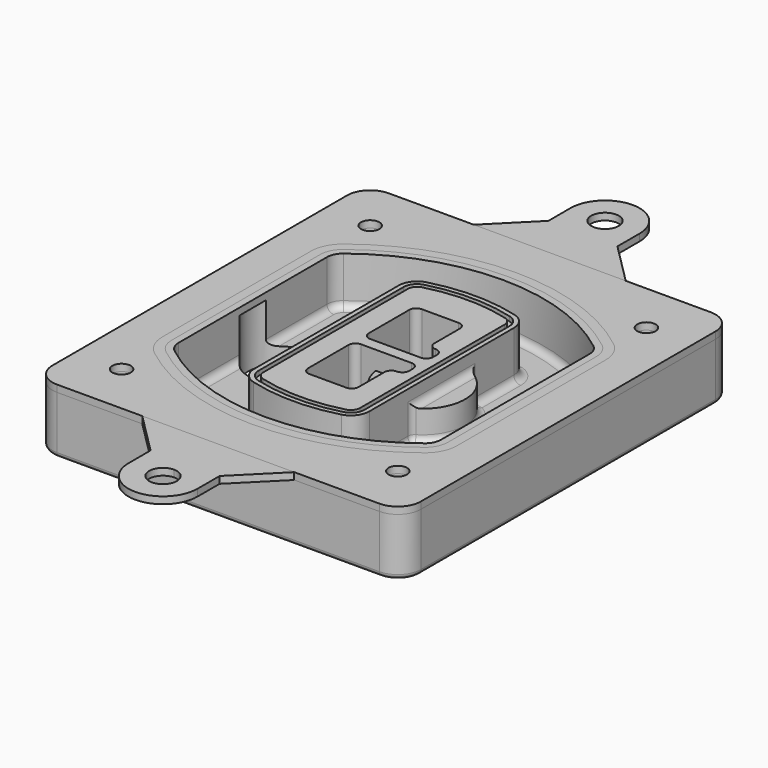
from build123d import *

# Parameters (mm, degrees)
F0_R      = 4
F1_DEPTH  = 25
F2_DEPTH  = 3
F3_DEPTH  = 18
F5_DEPTH  = 21
F6_DEPTH  = 2
F8_DEPTH  = 20
F9_DEPTH  = 16
F10_DEPTH = 25
F7_R      = 6
F7_R_2    = 4
F11_DEPTH = 6
F13_DEPTH = 9
F14_R     = 3
F15_R     = 2
F16_R     = 4
F17_DEPTH = 3


with BuildPart() as f1:
    # F0 (on Top) → F1 (new body)
    with BuildSketch(Plane.XY):
        with BuildLine():
            ThreePointArc((-80, -80), (-77.0710678119, -87.0710678119), (-70, -90))
            Line((-70, -90), (70, -90))
            ThreePointArc((70, -90), (77.0710678119, -87.0710678119), (80, -80))
            Line((80, -80), (80, 80))
            ThreePointArc((80, 80), (77.0710678119, 87.0710678119), (70, 90))
            Line((70, 90), (-70, 90))
            ThreePointArc((-70, 90), (-77.0710678119, 87.0710678119), (-80, 80))
            Line((-80, 80), (-80, -80))
        make_face()
        with Locations((-60, -67.5)):
            Circle(F0_R, mode=Mode.SUBTRACT)
        with Locations((60, -67.5)):
            Circle(F0_R, mode=Mode.SUBTRACT)
        with Locations((-60, 67.5)):
            Circle(F0_R, mode=Mode.SUBTRACT)
        with BuildLine():
            ThreePointArc((-64, 40.2934422872), (-62.5820384798, 46.4328484224), (-58.6153846154, 51.3286200352))
            ThreePointArc((-58.6153846154, 51.3286200352), (0, 71.5), (58.6153846154, 51.3286200352))
            ThreePointArc((58.6153846154, 51.3286200352), (62.5820384798, 46.4328484224), (64, 40.2934422872))
            Line((64, 40.2934422872), (64, -40.2934422872))
            ThreePointArc((64, -40.2934422872), (62.5820384798, -46.4328484224), (58.6153846154, -51.3286200352))
            ThreePointArc((58.6153846154, -51.3286200352), (0, -71.5), (-58.6153846154, -51.3286200352))
            ThreePointArc((-58.6153846154, -51.3286200352), (-62.5820384798, -46.4328484224), (-64, -40.2934422872))
            Line((-64, -40.2934422872), (-64, 40.2934422872))
        make_face(mode=Mode.SUBTRACT)
        with Locations((60, 67.5)):
            Circle(F0_R, mode=Mode.SUBTRACT)
        with BuildLine():
            ThreePointArc((58.6153846154, 51.3286200352), (0, 71.5), (-58.6153846154, 51.3286200352))
            ThreePointArc((-58.6153846154, 51.3286200352), (-62.5820384798, 46.4328484224), (-64, 40.2934422872))
            Line((-64, 40.2934422872), (-64, -40.2934422872))
            ThreePointArc((-64, -40.2934422872), (-62.5820384798, -46.4328484224), (-58.6153846154, -51.3286200352))
            ThreePointArc((-58.6153846154, -51.3286200352), (0, -71.5), (58.6153846154, -51.3286200352))
            ThreePointArc((58.6153846154, -51.3286200352), (62.5820384798, -46.4328484224), (64, -40.2934422872))
            Line((64, -40.2934422872), (64, 40.2934422872))
            ThreePointArc((64, 40.2934422872), (62.5820384798, 46.4328484224), (58.6153846154, 51.3286200352))
        make_face()
        with BuildLine():
            Line((-60, -40.2934422872), (-60, 40.2934422872))
            ThreePointArc((-60, 40.2934422872), (-58.9871703427, 44.6787323838), (-56.1538461538, 48.1757121072))
            ThreePointArc((-56.1538461538, 48.1757121072), (0, 67.5), (56.1538461538, 48.1757121072))
            ThreePointArc((56.1538461538, 48.1757121072), (58.9871703427, 44.6787323838), (60, 40.2934422872))
            Line((60, 40.2934422872), (60, -40.2934422872))
            ThreePointArc((60, -40.2934422872), (58.9871703427, -44.6787323838), (56.1538461538, -48.1757121072))
            ThreePointArc((56.1538461538, -48.1757121072), (0, -67.5), (-56.1538461538, -48.1757121072))
            ThreePointArc((-56.1538461538, -48.1757121072), (-58.9871703427, -44.6787323838), (-60, -40.2934422872))
        make_face(mode=Mode.SUBTRACT)
        with BuildLine():
            ThreePointArc((-56.1538461538, 48.1757121072), (-58.9871703427, 44.6787323838), (-60, 40.2934422872))
            Line((-60, 40.2934422872), (-60, -40.2934422872))
            ThreePointArc((-60, -40.2934422872), (-58.9871703427, -44.6787323838), (-56.1538461538, -48.1757121072))
            ThreePointArc((-56.1538461538, -48.1757121072), (0, -67.5), (56.1538461538, -48.1757121072))
            ThreePointArc((56.1538461538, -48.1757121072), (58.9871703427, -44.6787323838), (60, -40.2934422872))
            Line((60, -40.2934422872), (60, 40.2934422872))
            ThreePointArc((60, 40.2934422872), (58.9871703427, 44.6787323838), (56.1538461538, 48.1757121072))
            ThreePointArc((56.1538461538, 48.1757121072), (0, 67.5), (-56.1538461538, 48.1757121072))
        make_face()
        with BuildLine():
            ThreePointArc((54.3076923077, 45.8110311612), (56.2910192399, 43.3631453548), (57, 40.2934422872))
            Line((57, 40.2934422872), (57, -40.2934422872))
            ThreePointArc((57, -40.2934422872), (56.2910192399, -43.3631453548), (54.3076923077, -45.8110311612))
            ThreePointArc((54.3076923077, -45.8110311612), (0, -64.5), (-54.3076923077, -45.8110311612))
            ThreePointArc((-54.3076923077, -45.8110311612), (-56.2910192399, -43.3631453548), (-57, -40.2934422872))
            Line((-57, -40.2934422872), (-57, 40.2934422872))
            ThreePointArc((-57, 40.2934422872), (-56.2910192399, 43.3631453548), (-54.3076923077, 45.8110311612))
            ThreePointArc((-54.3076923077, 45.8110311612), (0, 64.5), (54.3076923077, 45.8110311612))
        make_face(mode=Mode.SUBTRACT)
        with BuildLine():
            Line((57, -40.2934422872), (57, 40.2934422872))
            ThreePointArc((57, 40.2934422872), (56.2910192399, 43.3631453548), (54.3076923077, 45.8110311612))
            ThreePointArc((54.3076923077, 45.8110311612), (0, 64.5), (-54.3076923077, 45.8110311612))
            ThreePointArc((-54.3076923077, 45.8110311612), (-56.2910192399, 43.3631453548), (-57, 40.2934422872))
            Line((-57, 40.2934422872), (-57, -40.2934422872))
            ThreePointArc((-57, -40.2934422872), (-56.2910192399, -43.3631453548), (-54.3076923077, -45.8110311612))
            ThreePointArc((-54.3076923077, -45.8110311612), (0, -64.5), (54.3076923077, -45.8110311612))
            ThreePointArc((54.3076923077, -45.8110311612), (56.2910192399, -43.3631453548), (57, -40.2934422872))
        make_face()
    extrude(amount=-F1_DEPTH)

    # F0 (on Top) → F2 (join)
    with BuildSketch(Plane.XY):
        with BuildLine():
            ThreePointArc((-56.1538461538, 48.1757121072), (-58.9871703427, 44.6787323838), (-60, 40.2934422872))
            Line((-60, 40.2934422872), (-60, -40.2934422872))
            ThreePointArc((-60, -40.2934422872), (-58.9871703427, -44.6787323838), (-56.1538461538, -48.1757121072))
            ThreePointArc((-56.1538461538, -48.1757121072), (0, -67.5), (56.1538461538, -48.1757121072))
            ThreePointArc((56.1538461538, -48.1757121072), (58.9871703427, -44.6787323838), (60, -40.2934422872))
            Line((60, -40.2934422872), (60, 40.2934422872))
            ThreePointArc((60, 40.2934422872), (58.9871703427, 44.6787323838), (56.1538461538, 48.1757121072))
            ThreePointArc((56.1538461538, 48.1757121072), (0, 67.5), (-56.1538461538, 48.1757121072))
        make_face()
        with BuildLine():
            ThreePointArc((54.3076923077, 45.8110311612), (56.2910192399, 43.3631453548), (57, 40.2934422872))
            Line((57, 40.2934422872), (57, -40.2934422872))
            ThreePointArc((57, -40.2934422872), (56.2910192399, -43.3631453548), (54.3076923077, -45.8110311612))
            ThreePointArc((54.3076923077, -45.8110311612), (0, -64.5), (-54.3076923077, -45.8110311612))
            ThreePointArc((-54.3076923077, -45.8110311612), (-56.2910192399, -43.3631453548), (-57, -40.2934422872))
            Line((-57, -40.2934422872), (-57, 40.2934422872))
            ThreePointArc((-57, 40.2934422872), (-56.2910192399, 43.3631453548), (-54.3076923077, 45.8110311612))
            ThreePointArc((-54.3076923077, 45.8110311612), (0, 64.5), (54.3076923077, 45.8110311612))
        make_face(mode=Mode.SUBTRACT)
    extrude(amount=F2_DEPTH)

    # F0 (on Top) → F3 (cut)
    with BuildSketch(Plane.XY):
        with BuildLine():
            Line((57, -40.2934422872), (57, 40.2934422872))
            ThreePointArc((57, 40.2934422872), (56.2910192399, 43.3631453548), (54.3076923077, 45.8110311612))
            ThreePointArc((54.3076923077, 45.8110311612), (0, 64.5), (-54.3076923077, 45.8110311612))
            ThreePointArc((-54.3076923077, 45.8110311612), (-56.2910192399, 43.3631453548), (-57, 40.2934422872))
            Line((-57, 40.2934422872), (-57, -40.2934422872))
            ThreePointArc((-57, -40.2934422872), (-56.2910192399, -43.3631453548), (-54.3076923077, -45.8110311612))
            ThreePointArc((-54.3076923077, -45.8110311612), (0, -64.5), (54.3076923077, -45.8110311612))
            ThreePointArc((54.3076923077, -45.8110311612), (56.2910192399, -43.3631453548), (57, -40.2934422872))
        make_face()
    extrude(amount=-F3_DEPTH, mode=Mode.SUBTRACT)

    # F4 (on face) → F5 (join, through all)
    with BuildSketch(Plane.XY.offset(3)):
        with BuildLine():
            ThreePointArc((-25, -39.2465276821), (-23.3511545998, -44.1109737193), (-19.0842911877, -46.9702398883))
            ThreePointArc((-19.0842911877, -46.9702398883), (0, -49.5), (19.0842911877, -46.9702398883))
            ThreePointArc((19.0842911877, -46.9702398883), (23.3511545998, -44.1109737193), (25, -39.2465276821))
            Line((25, -39.2465276821), (25, 39.2465276821))
            ThreePointArc((25, 39.2465276821), (23.3511545998, 44.1109737193), (19.0842911877, 46.9702398883))
            ThreePointArc((19.0842911877, 46.9702398883), (0, 49.5), (-19.0842911877, 46.9702398883))
            ThreePointArc((-19.0842911877, 46.9702398883), (-23.3511545998, 44.1109737193), (-25, 39.2465276821))
            Line((-25, 39.2465276821), (-25, -39.2465276821))
        make_face()
        with BuildLine():
            ThreePointArc((18.5632183908, 45.0393118368), (21.7633659499, 42.89486221), (23, 39.2465276821))
            Line((23, 39.2465276821), (23, -39.2465276821))
            ThreePointArc((23, -39.2465276821), (21.7633659499, -42.89486221), (18.5632183908, -45.0393118368))
            ThreePointArc((18.5632183908, -45.0393118368), (0, -47.5), (-18.5632183908, -45.0393118368))
            ThreePointArc((-18.5632183908, -45.0393118368), (-21.7633659499, -42.89486221), (-23, -39.2465276821))
            Line((-23, -39.2465276821), (-23, 39.2465276821))
            ThreePointArc((-23, 39.2465276821), (-21.7633659499, 42.89486221), (-18.5632183908, 45.0393118368))
            ThreePointArc((-18.5632183908, 45.0393118368), (0, 47.5), (18.5632183908, 45.0393118368))
        make_face(mode=Mode.SUBTRACT)
        with BuildLine():
            Line((23, -39.2465276821), (23, 39.2465276821))
            ThreePointArc((23, 39.2465276821), (21.7633659499, 42.89486221), (18.5632183908, 45.0393118368))
            ThreePointArc((18.5632183908, 45.0393118368), (0, 47.5), (-18.5632183908, 45.0393118368))
            ThreePointArc((-18.5632183908, 45.0393118368), (-21.7633659499, 42.89486221), (-23, 39.2465276821))
            Line((-23, 39.2465276821), (-23, -39.2465276821))
            ThreePointArc((-23, -39.2465276821), (-21.7633659499, -42.89486221), (-18.5632183908, -45.0393118368))
            ThreePointArc((-18.5632183908, -45.0393118368), (0, -47.5), (18.5632183908, -45.0393118368))
            ThreePointArc((18.5632183908, -45.0393118368), (21.7633659499, -42.89486221), (23, -39.2465276821))
        make_face()
        with BuildLine():
            ThreePointArc((18.0421455939, 43.1083837852), (20.1755772999, 41.6787507007), (21, 39.2465276821))
            Line((21, 39.2465276821), (21, -39.2465276821))
            ThreePointArc((21, -39.2465276821), (20.1755772999, -41.6787507007), (18.0421455939, -43.1083837852))
            ThreePointArc((18.0421455939, -43.1083837852), (0, -45.5), (-18.0421455939, -43.1083837852))
            ThreePointArc((-18.0421455939, -43.1083837852), (-20.1755772999, -41.6787507007), (-21, -39.2465276821))
            Line((-21, -39.2465276821), (-21, 39.2465276821))
            ThreePointArc((-21, 39.2465276821), (-20.1755772999, 41.6787507007), (-18.0421455939, 43.1083837852))
            ThreePointArc((-18.0421455939, 43.1083837852), (0, 45.5), (18.0421455939, 43.1083837852))
        make_face(mode=Mode.SUBTRACT)
        with BuildLine():
            Line((21, -39.2465276821), (21, 39.2465276821))
            ThreePointArc((21, 39.2465276821), (20.1755772999, 41.6787507007), (18.0421455939, 43.1083837852))
            ThreePointArc((18.0421455939, 43.1083837852), (0, 45.5), (-18.0421455939, 43.1083837852))
            ThreePointArc((-18.0421455939, 43.1083837852), (-20.1755772999, 41.6787507007), (-21, 39.2465276821))
            Line((-21, 39.2465276821), (-21, -39.2465276821))
            ThreePointArc((-21, -39.2465276821), (-20.1755772999, -41.6787507007), (-18.0421455939, -43.1083837852))
            ThreePointArc((-18.0421455939, -43.1083837852), (0, -45.5), (18.0421455939, -43.1083837852))
            ThreePointArc((18.0421455939, -43.1083837852), (20.1755772999, -41.6787507007), (21, -39.2465276821))
        make_face()
        with BuildLine():
            Line((-8, -2.5), (14, -2.5))
            ThreePointArc((14, -2.5), (16.1213203436, -3.3786796564), (17, -5.5))
            Line((17, -5.5), (17, -7.5))
            ThreePointArc((17, -7.5), (16.1213203436, -9.6213203436), (14, -10.5))
            ThreePointArc((14, -10.5), (11.8786796564, -11.3786796564), (11, -13.5))
            Line((11, -13.5), (11, -27.5))
            ThreePointArc((11, -27.5), (10.1213203436, -29.6213203436), (8, -30.5))
            Line((8, -30.5), (-8, -30.5))
            ThreePointArc((-8, -30.5), (-10.1213203436, -29.6213203436), (-11, -27.5))
            Line((-11, -27.5), (-11, -5.5))
            ThreePointArc((-11, -5.5), (-10.1213203436, -3.3786796564), (-8, -2.5))
        make_face(mode=Mode.SUBTRACT)
        with BuildLine():
            ThreePointArc((-8, 2.5), (-10.1213203436, 3.3786796564), (-11, 5.5))
            Line((-11, 5.5), (-11, 27.5))
            ThreePointArc((-11, 27.5), (-10.1213203436, 29.6213203436), (-8, 30.5))
            Line((-8, 30.5), (8, 30.5))
            ThreePointArc((8, 30.5), (10.1213203436, 29.6213203436), (11, 27.5))
            Line((11, 27.5), (11, 13.5))
            ThreePointArc((11, 13.5), (11.8786796564, 11.3786796564), (14, 10.5))
            ThreePointArc((14, 10.5), (16.1213203436, 9.6213203436), (17, 7.5))
            Line((17, 7.5), (17, 5.5))
            ThreePointArc((17, 5.5), (16.1213203436, 3.3786796564), (14, 2.5))
            Line((14, 2.5), (-8, 2.5))
        make_face(mode=Mode.SUBTRACT)
    extrude(amount=-F5_DEPTH)

    # F4 (on face) → F6 (cut)
    with BuildSketch(Plane.XY.offset(3)):
        with BuildLine():
            Line((23, -39.2465276821), (23, 39.2465276821))
            ThreePointArc((23, 39.2465276821), (21.7633659499, 42.89486221), (18.5632183908, 45.0393118368))
            ThreePointArc((18.5632183908, 45.0393118368), (0, 47.5), (-18.5632183908, 45.0393118368))
            ThreePointArc((-18.5632183908, 45.0393118368), (-21.7633659499, 42.89486221), (-23, 39.2465276821))
            Line((-23, 39.2465276821), (-23, -39.2465276821))
            ThreePointArc((-23, -39.2465276821), (-21.7633659499, -42.89486221), (-18.5632183908, -45.0393118368))
            ThreePointArc((-18.5632183908, -45.0393118368), (0, -47.5), (18.5632183908, -45.0393118368))
            ThreePointArc((18.5632183908, -45.0393118368), (21.7633659499, -42.89486221), (23, -39.2465276821))
        make_face()
        with BuildLine():
            ThreePointArc((18.0421455939, 43.1083837852), (20.1755772999, 41.6787507007), (21, 39.2465276821))
            Line((21, 39.2465276821), (21, -39.2465276821))
            ThreePointArc((21, -39.2465276821), (20.1755772999, -41.6787507007), (18.0421455939, -43.1083837852))
            ThreePointArc((18.0421455939, -43.1083837852), (0, -45.5), (-18.0421455939, -43.1083837852))
            ThreePointArc((-18.0421455939, -43.1083837852), (-20.1755772999, -41.6787507007), (-21, -39.2465276821))
            Line((-21, -39.2465276821), (-21, 39.2465276821))
            ThreePointArc((-21, 39.2465276821), (-20.1755772999, 41.6787507007), (-18.0421455939, 43.1083837852))
            ThreePointArc((-18.0421455939, 43.1083837852), (0, 45.5), (18.0421455939, 43.1083837852))
        make_face(mode=Mode.SUBTRACT)
    extrude(amount=-F6_DEPTH, mode=Mode.SUBTRACT)

    # F7 (on face) → F8 (join)
    with BuildSketch(Plane(origin=(0, 0, -25), x_dir=(1, 0, 0), z_dir=(0, 0, -1))):
        with BuildLine():
            ThreePointArc((3.28842436, 0), (16.7567035675, 13.4682792075), (30.224982775, 0))
            Line((30.224982775, 0), (35.224982775, 0))
            ThreePointArc((35.224982775, 0), (16.7567035675, 18.4682792075), (-1.71157564, 0))
            Line((-1.71157564, 0), (3.28842436, 0))
        make_face()
        with BuildLine():
            Line((3.28842436, 0), (30.224982775, 0))
            ThreePointArc((30.224982775, 0), (16.7567035675, 13.4682792075), (3.28842436, 0))
        make_face()
        with BuildLine():
            ThreePointArc((3.28842436, 0), (16.7567035675, -13.4682792075), (30.224982775, 0))
            Line((30.224982775, 0), (3.28842436, 0))
        make_face()
        with BuildLine():
            Line((35.224982775, 0), (30.224982775, 0))
            ThreePointArc((30.224982775, 0), (16.7567035675, -13.4682792075), (3.28842436, 0))
            Line((3.28842436, 0), (-1.71157564, 0))
            ThreePointArc((-1.71157564, 0), (16.7567035675, -18.4682792075), (35.224982775, 0))
        make_face()
    extrude(amount=-F8_DEPTH)

    # F7 (on face) → F9 (cut)
    with BuildSketch(Plane(origin=(0, 0, -25), x_dir=(1, 0, 0), z_dir=(0, 0, -1))):
        with BuildLine():
            Line((3.28842436, 0), (30.224982775, 0))
            ThreePointArc((30.224982775, 0), (16.7567035675, 13.4682792075), (3.28842436, 0))
        make_face()
        with BuildLine():
            ThreePointArc((3.28842436, 0), (16.7567035675, -13.4682792075), (30.224982775, 0))
            Line((30.224982775, 0), (3.28842436, 0))
        make_face()
    extrude(amount=-F9_DEPTH, mode=Mode.SUBTRACT)

    # F7 (on face) → F10 (cut)
    with BuildSketch(Plane(origin=(0, 0, -25), x_dir=(1, 0, 0), z_dir=(0, 0, -1))):
        with BuildLine():
            Line((-59.0318229325, 0), (-32.0952645175, 0))
            ThreePointArc((-32.0952645175, 0), (-45.563543725, 13.4682792075), (-59.0318229325, 0))
        make_face()
        with BuildLine():
            ThreePointArc((-59.0318229325, 0), (-45.563543725, -13.4682792075), (-32.0952645175, 0))
            Line((-32.0952645175, 0), (-59.0318229325, 0))
        make_face()
    extrude(amount=-F10_DEPTH, mode=Mode.SUBTRACT)

    # F7 (on face) → F11 (cut)
    with BuildSketch(Plane(origin=(0, 0, -25), x_dir=(1, 0, 0), z_dir=(0, 0, -1))):
        with Locations((60, -67.5)):
            Circle(F7_R)
        with Locations((60, -67.5)):
            Circle(F7_R_2, mode=Mode.SUBTRACT)
        with Locations((60, -67.5)):
            Circle(F7_R)
        with Locations((60, -67.5)):
            Circle(F7_R_2, mode=Mode.SUBTRACT)
        with Locations((-60, -67.5)):
            Circle(F7_R)
        with Locations((-60, -67.5)):
            Circle(F7_R_2, mode=Mode.SUBTRACT)
        with Locations((-60, -67.5)):
            Circle(F7_R)
        with Locations((-60, -67.5)):
            Circle(F7_R_2, mode=Mode.SUBTRACT)
        with Locations((-60, 67.5)):
            Circle(F7_R)
        with Locations((-60, 67.5)):
            Circle(F7_R_2, mode=Mode.SUBTRACT)
        with Locations((-60, 67.5)):
            Circle(F7_R)
        with Locations((-60, 67.5)):
            Circle(F7_R_2, mode=Mode.SUBTRACT)
        with Locations((60, 67.5)):
            Circle(F7_R)
        with Locations((60, 67.5)):
            Circle(F7_R_2, mode=Mode.SUBTRACT)
        with Locations((60, 67.5)):
            Circle(F7_R)
        with Locations((60, 67.5)):
            Circle(F7_R_2, mode=Mode.SUBTRACT)
    extrude(amount=-F11_DEPTH, mode=Mode.SUBTRACT)

    # F12 (on face) → F13 (cut, through all)
    with BuildSketch(Plane(origin=(0, 0, -9), x_dir=(1, 0, 0), z_dir=(0, 0, -1))):
        with BuildLine():
            Line((11, 13.5), (11, 17.5481537753))
            ThreePointArc((11, 17.5481537753), (2.5696536419, 11.8239143813), (-1.5415842455, 2.5))
            Line((-1.5415842455, 2.5), (3.5224848595, 2.5))
            ThreePointArc((3.5224848595, 2.5), (6.1857188154, 8.3455872281), (11.2536447004, 12.2927168648))
            ThreePointArc((11.2536447004, 12.2927168648), (11.0640958889, 12.8831798879), (11, 13.5))
        make_face()
        with BuildLine():
            ThreePointArc((11.2536447004, -12.2927168648), (6.1857188154, -8.3455872281), (3.5224848595, -2.5))
            Line((3.5224848595, -2.5), (-1.5415842455, -2.5))
            ThreePointArc((-1.5415842455, -2.5), (2.5696536419, -11.8239143813), (11, -17.5481537753))
            Line((11, -17.5481537753), (11, -13.5))
            ThreePointArc((11, -13.5), (11.0640958889, -12.8831798879), (11.2536447004, -12.2927168648))
        make_face()
        with BuildLine():
            ThreePointArc((11.2536447004, 12.2927168648), (6.1857188154, 8.3455872281), (3.5224848595, 2.5))
            Line((3.5224848595, 2.5), (14, 2.5))
            ThreePointArc((14, 2.5), (16.1213203436, 3.3786796564), (17, 5.5))
            Line((17, 5.5), (17, 7.5))
            ThreePointArc((17, 7.5), (16.1213203436, 9.6213203436), (14, 10.5))
            ThreePointArc((14, 10.5), (12.3601599782, 10.9878446101), (11.2536447004, 12.2927168648))
        make_face()
        with BuildLine():
            Line((14, -2.5), (3.5224848595, -2.5))
            ThreePointArc((3.5224848595, -2.5), (6.1857188154, -8.3455872281), (11.2536447004, -12.2927168648))
            ThreePointArc((11.2536447004, -12.2927168648), (12.3601599782, -10.9878446101), (14, -10.5))
            ThreePointArc((14, -10.5), (16.1213203436, -9.6213203436), (17, -7.5))
            Line((17, -7.5), (17, -5.5))
            ThreePointArc((17, -5.5), (16.1213203436, -3.3786796564), (14, -2.5))
        make_face()
    extrude(amount=F13_DEPTH, mode=Mode.SUBTRACT)

    # F14
    f14_edges = [f1.edges().sort_by_distance(p)[0] for p in [
        (-57, -23.703476, -18),
        (-57, 23.703476, -18),
        (25, 0, -5),
        (25, 16.526506, -11.5),
        (25, -16.526506, -11.5),
        (25, -27.886517, -18),
        (35.224983, 0, -18),
    ]]
    fillet(f14_edges, radius=F14_R)

    # F15
    f15_edges = [f1.edges().sort_by_distance(p)[0] for p in [
        (0, -90, -25),
    ]]
    fillet(f15_edges, radius=F15_R)


with BuildPart() as f17:
    # F16 (on face) → F17 (new body, through all)
    with BuildSketch(Plane.XY):
        with BuildLine():
            Line((-33, 90), (0, 90))
            Line((0, 90), (33, 90))
            Line((33, 90), (15, 108))
            Line((15, 108), (15, 120))
            ThreePointArc((15, 120), (0, 135), (-15, 120))
            Line((-15, 120), (-15, 108))
            Line((-15, 108), (-33, 90))
        make_face()
        with BuildLine():
            ThreePointArc((6, 120), (4.2426406871, 115.7573593129), (0, 114))
            ThreePointArc((0, 114), (-4.2426406871, 124.2426406871), (6, 120))
        make_face(mode=Mode.SUBTRACT)
        with BuildLine():
            Line((33, 90), (0, 90))
            Line((0, 90), (-33, 90))
            Line((-33, 90), (-70, 90))
            ThreePointArc((-70, 90), (-77.0710678119, 87.0710678119), (-80, 80))
            Line((-80, 80), (-80, -80))
            ThreePointArc((-80, -80), (-77.0710678119, -87.0710678119), (-70, -90))
            Line((-70, -90), (-33, -90))
            Line((-33, -90), (0, -90))
            Line((0, -90), (33, -90))
            Line((33, -90), (70, -90))
            ThreePointArc((70, -90), (77.0710678119, -87.0710678119), (80, -80))
            Line((80, -80), (80, 80))
            ThreePointArc((80, 80), (77.0710678119, 87.0710678119), (70, 90))
            Line((70, 90), (33, 90))
        make_face()
        with Locations((-60, -67.5)):
            Circle(F16_R, mode=Mode.SUBTRACT)
        with Locations((60, -67.5)):
            Circle(F16_R, mode=Mode.SUBTRACT)
        with Locations((-60, 67.5)):
            Circle(F16_R, mode=Mode.SUBTRACT)
        with BuildLine():
            ThreePointArc((-60, 40.2934422872), (-58.9871703427, 44.6787323838), (-56.1538461538, 48.1757121072))
            ThreePointArc((-56.1538461538, 48.1757121072), (0, 67.5), (56.1538461538, 48.1757121072))
            ThreePointArc((56.1538461538, 48.1757121072), (58.9871703427, 44.6787323838), (60, 40.2934422872))
            Line((60, 40.2934422872), (60, -40.2934422872))
            ThreePointArc((60, -40.2934422872), (58.9871703427, -44.6787323838), (56.1538461538, -48.1757121072))
            ThreePointArc((56.1538461538, -48.1757121072), (0, -67.5), (-56.1538461538, -48.1757121072))
            ThreePointArc((-56.1538461538, -48.1757121072), (-58.9871703427, -44.6787323838), (-60, -40.2934422872))
            Line((-60, -40.2934422872), (-60, 40.2934422872))
        make_face(mode=Mode.SUBTRACT)
        with Locations((60, 67.5)):
            Circle(F16_R, mode=Mode.SUBTRACT)
        with BuildLine():
            Line((15, -108), (33, -90))
            Line((33, -90), (0, -90))
            Line((0, -90), (-33, -90))
            Line((-33, -90), (-15, -108))
            Line((-15, -108), (-15, -120))
            ThreePointArc((-15, -120), (0, -135), (15, -120))
            Line((15, -120), (15, -108))
        make_face()
        with BuildLine():
            ThreePointArc((6, -120), (-4.2426406871, -124.2426406871), (0, -114))
            ThreePointArc((0, -114), (4.2426406871, -115.7573593129), (6, -120))
        make_face(mode=Mode.SUBTRACT)
    extrude(amount=F17_DEPTH)


with BuildPart() as f17b:
    # F0 (on Top) → F17, piece 2 (new body, through all)
    with BuildSketch(Plane.XY):
        with BuildLine():
            ThreePointArc((-80, -80), (-77.0710678119, -87.0710678119), (-70, -90))
            Line((-70, -90), (70, -90))
            ThreePointArc((70, -90), (77.0710678119, -87.0710678119), (80, -80))
            Line((80, -80), (80, 80))
            ThreePointArc((80, 80), (77.0710678119, 87.0710678119), (70, 90))
            Line((70, 90), (-70, 90))
            ThreePointArc((-70, 90), (-77.0710678119, 87.0710678119), (-80, 80))
            Line((-80, 80), (-80, -80))
        make_face()
        with Locations((-60, -67.5)):
            Circle(F0_R, mode=Mode.SUBTRACT)
        with Locations((60, -67.5)):
            Circle(F0_R, mode=Mode.SUBTRACT)
        with Locations((-60, 67.5)):
            Circle(F0_R, mode=Mode.SUBTRACT)
        with BuildLine():
            ThreePointArc((-64, 40.2934422872), (-62.5820384798, 46.4328484224), (-58.6153846154, 51.3286200352))
            ThreePointArc((-58.6153846154, 51.3286200352), (0, 71.5), (58.6153846154, 51.3286200352))
            ThreePointArc((58.6153846154, 51.3286200352), (62.5820384798, 46.4328484224), (64, 40.2934422872))
            Line((64, 40.2934422872), (64, -40.2934422872))
            ThreePointArc((64, -40.2934422872), (62.5820384798, -46.4328484224), (58.6153846154, -51.3286200352))
            ThreePointArc((58.6153846154, -51.3286200352), (0, -71.5), (-58.6153846154, -51.3286200352))
            ThreePointArc((-58.6153846154, -51.3286200352), (-62.5820384798, -46.4328484224), (-64, -40.2934422872))
            Line((-64, -40.2934422872), (-64, 40.2934422872))
        make_face(mode=Mode.SUBTRACT)
        with Locations((60, 67.5)):
            Circle(F0_R, mode=Mode.SUBTRACT)
    extrude(amount=F17_DEPTH)


solid = Compound([f1.part, f17.part, f17b.part])
